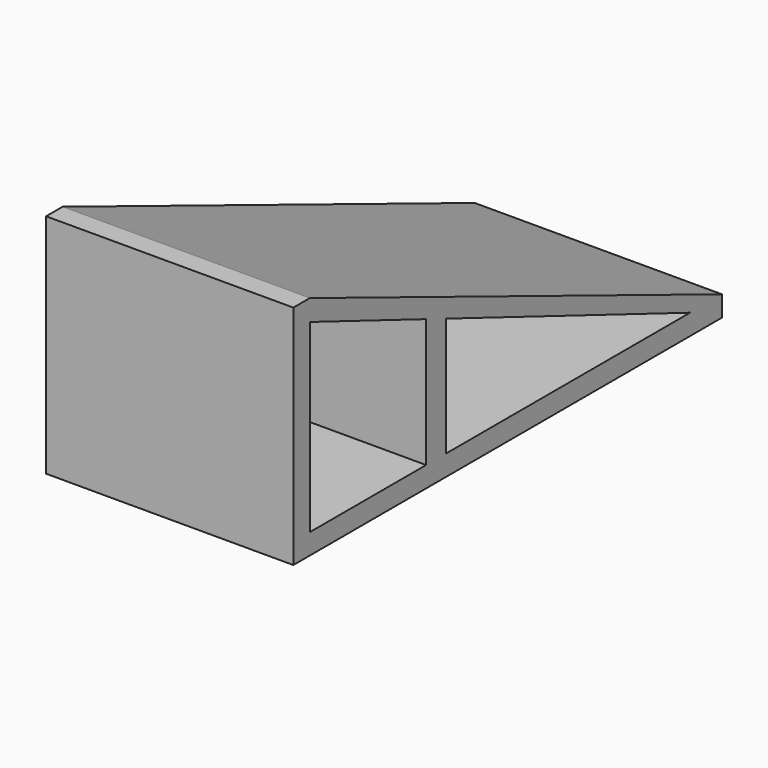
from build123d import *

# Parameters (mm, degrees)
F1_DEPTH = 76.2


with BuildPart() as f1:
    # F0 (on Right) → F1 (new body)
    with BuildSketch(Plane.YZ):
        Polygon((-82.55, 66.675), (-82.55, 3.175), (-76.2, 3.175), (-76.2, 60.195141), (-76.2, 66.675), align=None)
        Polygon((-76.2, 3.175), (-82.55, 3.175), (-82.55, -3.175), (82.55, -3.175), (82.55, 3.175), (70.252687, 3.175), (-23.647007, 3.175), (-31.397808, 3.175), align=None)
        Polygon((-76.2, 66.675), (-76.2, 60.195141), (-31.397808, 42.751778), (-23.647007, 39.734068), (70.252687, 3.175), (82.55, 3.175), align=None)
        Polygon((-31.397808, 42.751778), (-31.397808, 3.175), (-23.647007, 3.175), (-23.647007, 39.734068), align=None)
    extrude(amount=-F1_DEPTH)


solid = f1.part
